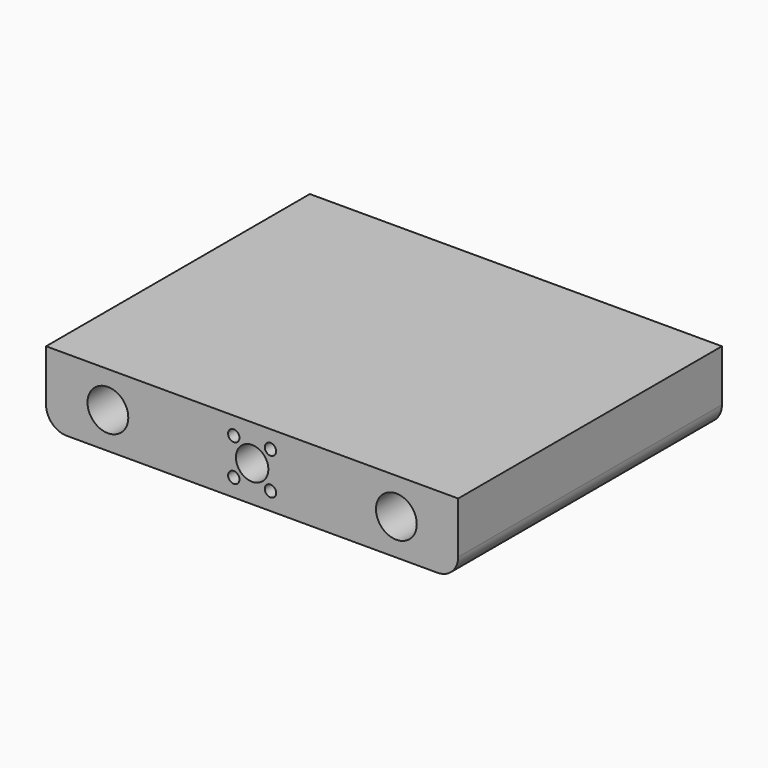
from build123d import *

# Parameters (mm, degrees)
F0_W     = 127
F0_H     = 22.225
F0_R     = 6.2865
F0_R_2   = 5
F1_DEPTH = 101.6
F2_R     = 6.35
F3_R     = 1.75
F4_DEPTH = 101.601


with BuildPart() as f1:
    # F0 (on Front) → F1 (new body)
    with BuildSketch(Plane.XZ):
        Rectangle(F0_W, F0_H)
        with Locations((-44.45, 0)):
            Circle(F0_R, mode=Mode.SUBTRACT)
        Circle(F0_R_2, mode=Mode.SUBTRACT)
        with Locations((44.45, 0)):
            Circle(F0_R, mode=Mode.SUBTRACT)
    extrude(amount=F1_DEPTH)

    # F2
    f2_edges = [f1.edges().sort_by_distance(p)[0] for p in [
        (-63.5, -50.8, -11.1125),
        (63.5, -50.8, -11.1125),
    ]]
    fillet(f2_edges, radius=F2_R)

    # F3 (on face) → F4 (cut, through all)
    with BuildSketch(Plane.XZ.offset(101.6)):
        with Locations((-5.656854, 5.656854)):
            Circle(F3_R)
        with Locations((5.656854, 5.656854)):
            Circle(F3_R)
        with Locations((5.656854, -5.656854)):
            Circle(F3_R)
        with Locations((-5.656854, -5.656854)):
            Circle(F3_R)
    extrude(amount=-F4_DEPTH, mode=Mode.SUBTRACT)


solid = f1.part
